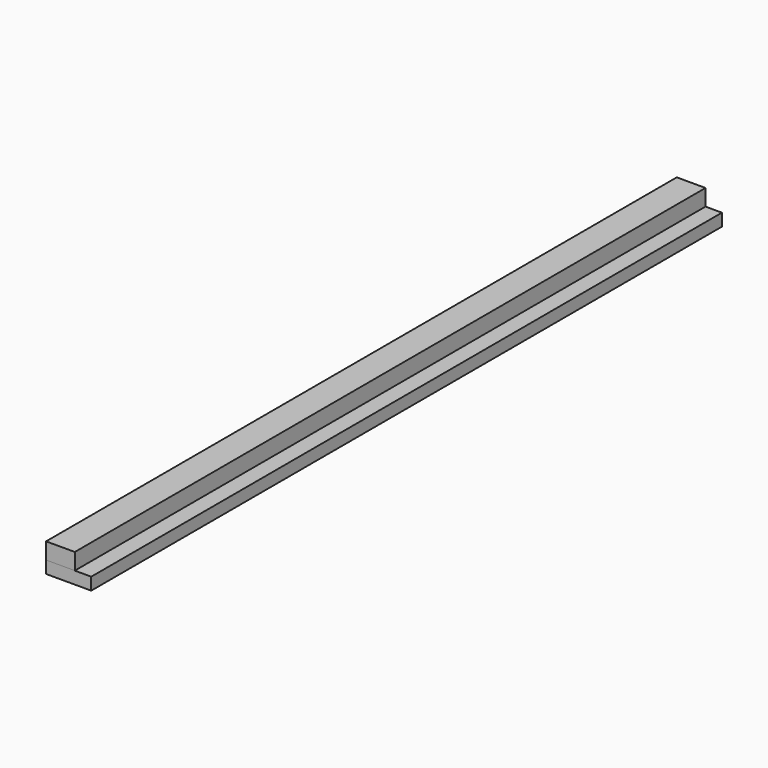
from build123d import *

# Parameters (mm, degrees)
F0_W     = 88.9
F0_H     = 88.9
F1_DEPTH = 2438.4
F3_DEPTH = 1219.2
F4_DEPTH = 2438.4
F6_DEPTH = 88.9
F7_DEPTH = 2438.4
F8_W     = 139.7
F8_H     = 38.1
F9_DEPTH = 2438.4


with BuildPart() as f1:
    # F0 (on Front) → F1 (new body)
    with BuildSketch(Plane.XZ):
        with Locations((44.45, 44.45)):
            Rectangle(F0_W, F0_H)
    extrude(amount=-F1_DEPTH)


with BuildPart() as f3:
    # F2 (on Front) → F3 (new body)
    with BuildSketch(Plane.XZ):
        with BuildLine():
            ThreePointArc((0, 6.35), (1.859872, 1.859872), (6.35, 0))
            Line((6.35, 0), (133.35, 0))
            ThreePointArc((133.35, 0), (137.840128, 1.859872), (139.7, 6.35))
            Line((139.7, 6.35), (139.7, 19.05))
            ThreePointArc((139.7, 19.05), (137.840128, 23.540128), (133.35, 25.4))
            Line((133.35, 25.4), (6.35, 25.4))
            ThreePointArc((6.35, 25.4), (1.859872, 23.540128), (0, 19.05))
            Line((0, 19.05), (0, 6.35))
        make_face()
    extrude(amount=-F3_DEPTH)


with BuildPart() as f4:
    # F2 (on Front) → F4 (new body)
    with BuildSketch(Plane.XZ):
        with BuildLine():
            ThreePointArc((0, 6.35), (1.859872, 1.859872), (6.35, 0))
            Line((6.35, 0), (133.35, 0))
            ThreePointArc((133.35, 0), (137.840128, 1.859872), (139.7, 6.35))
            Line((139.7, 6.35), (139.7, 19.05))
            ThreePointArc((139.7, 19.05), (137.840128, 23.540128), (133.35, 25.4))
            Line((133.35, 25.4), (6.35, 25.4))
            ThreePointArc((6.35, 25.4), (1.859872, 23.540128), (0, 19.05))
            Line((0, 19.05), (0, 6.35))
        make_face()
    extrude(amount=-F4_DEPTH)


with BuildPart() as f6_tool:
    # F5 (on Right) → F6 (new body, through all)
    with BuildSketch(Plane.YZ):
        Polygon((86.504284, 48.58048), (0, 88.91809), (0, 0), (63.850834, 0), align=None)
    extrude(amount=F6_DEPTH)


with BuildPart() as f1_1:
    add(f1.part)

    # F6: cut by f6_tool
    add(f6_tool.part, mode=Mode.SUBTRACT)


with BuildPart() as f3_1:
    add(f3.part)

    # F6: cut by f6_tool
    add(f6_tool.part, mode=Mode.SUBTRACT)


with BuildPart() as f4_1:
    add(f4.part)

    # F6: cut by f6_tool
    add(f6_tool.part, mode=Mode.SUBTRACT)


with BuildPart() as f7:
    # F0 (on Front) → F7 (new body)
    with BuildSketch(Plane.XZ):
        with Locations((44.45, 44.45)):
            Rectangle(F0_W, F0_H)
    extrude(amount=-F7_DEPTH)


with BuildPart() as f9:
    # F8 (on Front) → F9 (new body)
    with BuildSketch(Plane.XZ):
        with Locations((69.85, 19.05)):
            Rectangle(F8_W, F8_H)
    extrude(amount=-F9_DEPTH)


solid = Compound([f1_1.part, f3_1.part, f4_1.part, f7.part, f9.part])
